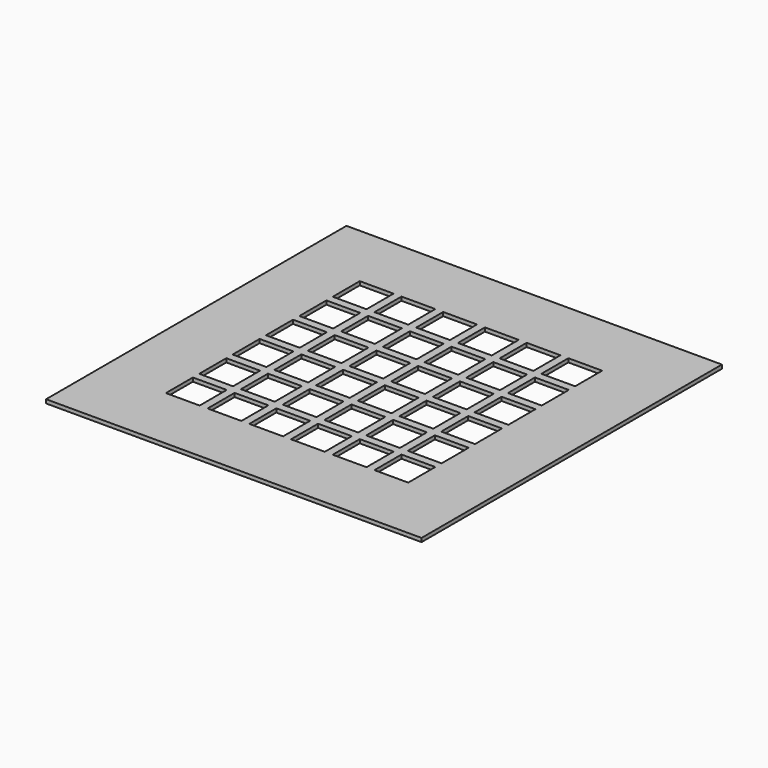
from build123d import *

# Parameters (mm, degrees)
SKETCH050_W                        = 100
SKETCH050_H                        = 100
PAD019_DEPTH                       = 1
SKETCH051_W                        = 9
SKETCH051_H                        = 9
POCKET012_DEPTH                    = 283.850783
SKETCH051_LINEARPATTERN002_2_W     = 9
SKETCH051_LINEARPATTERN002_2_H     = 9
POCKET012_LINEARPATTERN002_2_DEPTH = 283.850783
SKETCH051_LINEARPATTERN002_3_W     = 9
SKETCH051_LINEARPATTERN002_3_H     = 9
POCKET012_LINEARPATTERN002_3_DEPTH = 283.850783
SKETCH051_LINEARPATTERN002_4_W     = 9
SKETCH051_LINEARPATTERN002_4_H     = 9
POCKET012_LINEARPATTERN002_4_DEPTH = 283.850783
SKETCH051_LINEARPATTERN002_5_W     = 9
SKETCH051_LINEARPATTERN002_5_H     = 9
POCKET012_LINEARPATTERN002_5_DEPTH = 283.850783
SKETCH051_LINEARPATTERN002_6_W     = 9
SKETCH051_LINEARPATTERN002_6_H     = 9
POCKET012_LINEARPATTERN002_6_DEPTH = 283.850783
LINEARPATTERN003_COUNT             = 6
LINEARPATTERN003_PITCH             = 11.111111


with BuildPart() as part:
    # Sketch050 → Pad019 (new body)
    with BuildSketch(Plane.XY):
        Rectangle(SKETCH050_W, SKETCH050_H)
    extrude(amount=PAD019_DEPTH)

    # Sketch051 → Pocket012 (cut, through all)
    with BuildSketch(Plane.XY):
        with Locations((-27.777778, 27.777778)):
            Rectangle(SKETCH051_W, SKETCH051_H)
    pocket012 = extrude(amount=POCKET012_DEPTH, mode=Mode.SUBTRACT)

    # Sketch051 LinearPattern002 2 → Pocket012 LinearPattern002 2 (cut, through all)
    with BuildSketch(Plane(origin=(11.111111, 0, 0), x_dir=(1, 0, 0), z_dir=(0, 0, 1))):
        with Locations((-27.777778, 27.777778)):
            Rectangle(SKETCH051_LINEARPATTERN002_2_W, SKETCH051_LINEARPATTERN002_2_H)
    pocket012_linearpattern002_2 = extrude(amount=POCKET012_LINEARPATTERN002_2_DEPTH, mode=Mode.SUBTRACT)

    # Sketch051 LinearPattern002 3 → Pocket012 LinearPattern002 3 (cut, through all)
    with BuildSketch(Plane(origin=(22.222222, 0, 0), x_dir=(1, 0, 0), z_dir=(0, 0, 1))):
        with Locations((-27.777778, 27.777778)):
            Rectangle(SKETCH051_LINEARPATTERN002_3_W, SKETCH051_LINEARPATTERN002_3_H)
    pocket012_linearpattern002_3 = extrude(amount=POCKET012_LINEARPATTERN002_3_DEPTH, mode=Mode.SUBTRACT)

    # Sketch051 LinearPattern002 4 → Pocket012 LinearPattern002 4 (cut, through all)
    with BuildSketch(Plane(origin=(33.333333, 0, 0), x_dir=(1, 0, 0), z_dir=(0, 0, 1))):
        with Locations((-27.777778, 27.777778)):
            Rectangle(SKETCH051_LINEARPATTERN002_4_W, SKETCH051_LINEARPATTERN002_4_H)
    pocket012_linearpattern002_4 = extrude(amount=POCKET012_LINEARPATTERN002_4_DEPTH, mode=Mode.SUBTRACT)

    # Sketch051 LinearPattern002 5 → Pocket012 LinearPattern002 5 (cut, through all)
    with BuildSketch(Plane(origin=(44.444444, 0, 0), x_dir=(1, 0, 0), z_dir=(0, 0, 1))):
        with Locations((-27.777778, 27.777778)):
            Rectangle(SKETCH051_LINEARPATTERN002_5_W, SKETCH051_LINEARPATTERN002_5_H)
    pocket012_linearpattern002_5 = extrude(amount=POCKET012_LINEARPATTERN002_5_DEPTH, mode=Mode.SUBTRACT)

    # Sketch051 LinearPattern002 6 → Pocket012 LinearPattern002 6 (cut, through all)
    with BuildSketch(Plane(origin=(55.555556, 0, 0), x_dir=(1, 0, 0), z_dir=(0, 0, 1))):
        with Locations((-27.777778, 27.777778)):
            Rectangle(SKETCH051_LINEARPATTERN002_6_W, SKETCH051_LINEARPATTERN002_6_H)
    pocket012_linearpattern002_6 = extrude(amount=POCKET012_LINEARPATTERN002_6_DEPTH, mode=Mode.SUBTRACT)

    # LinearPattern003: Pocket012, Pocket012 LinearPattern002 2, Pocket012 LinearPattern002 3, Pocket012 LinearPattern002 4, Pocket012 LinearPattern002 5, Pocket012 LinearPattern002 6 ×6
    with Locations(*[(0, -i * LINEARPATTERN003_PITCH, 0) for i in range(1, LINEARPATTERN003_COUNT)]):
        add(pocket012, mode=Mode.SUBTRACT)
        add(pocket012_linearpattern002_2, mode=Mode.SUBTRACT)
        add(pocket012_linearpattern002_3, mode=Mode.SUBTRACT)
        add(pocket012_linearpattern002_4, mode=Mode.SUBTRACT)
        add(pocket012_linearpattern002_5, mode=Mode.SUBTRACT)
        add(pocket012_linearpattern002_6, mode=Mode.SUBTRACT)


solid = part.part
